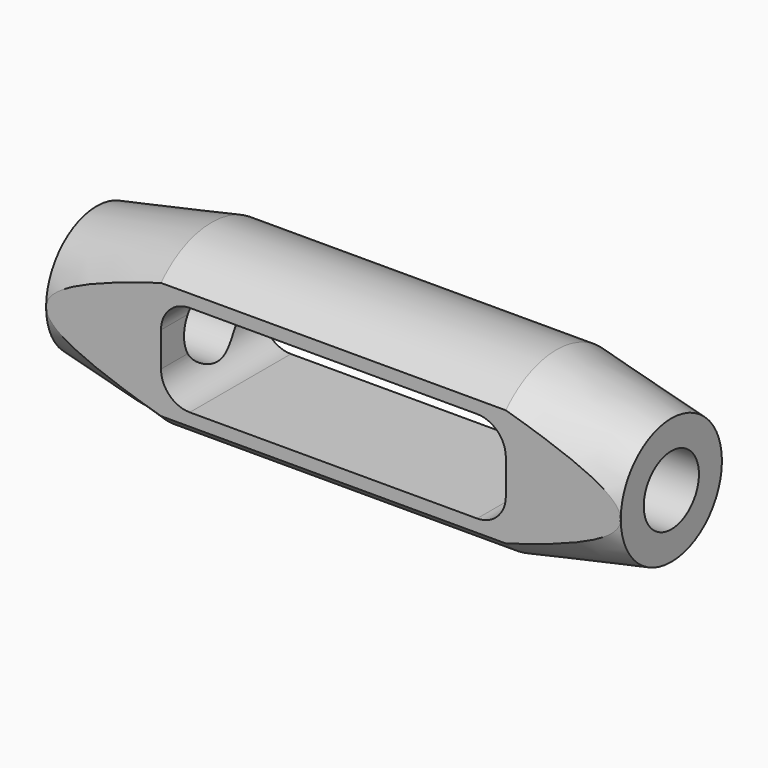
from build123d import *

# Parameters (mm, degrees)
SKETCH060_R      = 6
EXTRUDE054_DEPTH = 150
EXTRUDE053_DEPTH = 30
SKETCH058_W      = 15
SKETCH058_H      = 79.05159
SKETCH058_H_2    = 80
EXTRUDE052_DEPTH = 150


with BuildPart() as extrude059:
    # Sketch060 → Extrude054 (new body, symmetric)
    with BuildSketch(Plane.YZ):
        Circle(SKETCH060_R)
    extrude(amount=EXTRUDE054_DEPTH, both=True)


with BuildPart() as extrude058:
    # Sketch059 → Extrude053 (new body, symmetric)
    with BuildSketch(Plane.XZ):
        with BuildLine():
            Line((30, 3), (30, -3))
            ThreePointArc((25, -8), (28.535534, -6.535534), (30, -3))
            Line((25, -8), (-25, -8))
            ThreePointArc((-30, -3), (-28.535534, -6.535534), (-25, -8))
            Line((-30, -3), (-30, 3))
            ThreePointArc((-25, 8), (-28.535534, 6.535534), (-30, 3))
            Line((-25, 8), (25, 8))
            ThreePointArc((30, 3), (28.535534, 6.535534), (25, 8))
        make_face()
    extrude(amount=EXTRUDE053_DEPTH, both=True)


with BuildPart() as extrude057:
    # Sketch058 → Extrude052 (new body, symmetric)
    with BuildSketch(Plane.YZ):
        with Locations((-18.5, 0.159191)):
            Rectangle(SKETCH058_W, SKETCH058_H)
        with Locations((18.5, -0.315014)):
            Rectangle(SKETCH058_W, SKETCH058_H_2)
    extrude(amount=EXTRUDE052_DEPTH, both=True)


with BuildPart() as obj1:
    # Sketch057 → Revolve006 (revolve)
    with BuildSketch(Plane.XZ):
        Polygon((-50, 0), (-50, 11), (-30, 15), (30, 15), (50, 11), (50, 0), align=None)
    revolve(axis=Axis((-50, 0, 0), (-1, 0, 0)))

    # Cut018: cut Extrude057
    add(extrude057.part, mode=Mode.SUBTRACT)

    # Cut019: cut Extrude058
    add(extrude058.part, mode=Mode.SUBTRACT)

    # Cut020: cut Extrude059
    add(extrude059.part, mode=Mode.SUBTRACT)


with BuildPart() as obj1_1:
    # Cut020 placement: moved
    add(obj1.part.moved(Location((-530, 0, 0))))


solid = obj1_1.part
